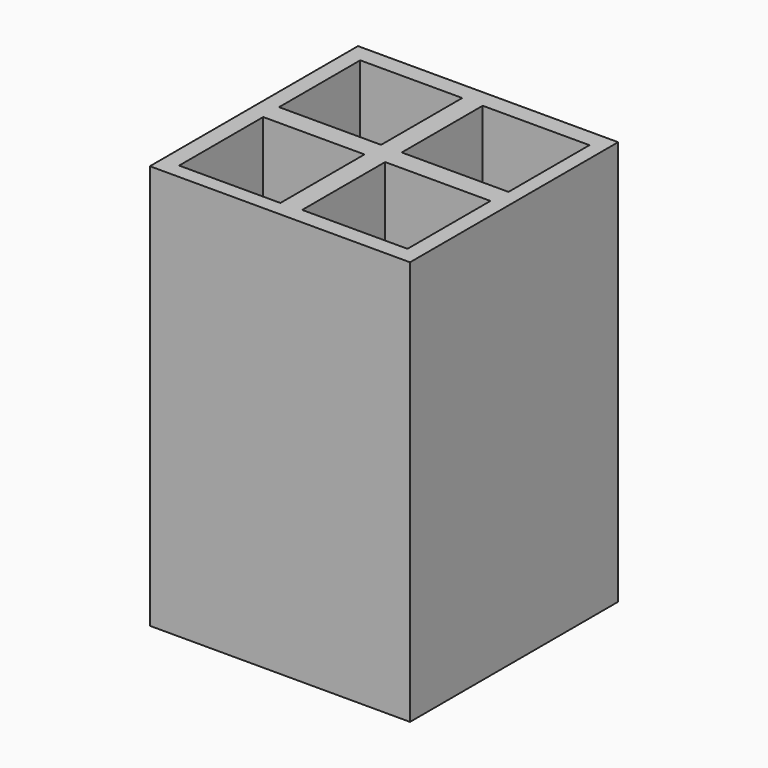
from build123d import *

# Parameters (mm, degrees)
F0_W     = 57.15
F0_H     = 57.15
F1_DEPTH = 88.9
F3_W     = 22.417528
F3_H     = 22.28817
F3_W_2   = 23.450016
F3_H_2   = 22.233822
F3_W_3   = 22.246276
F3_H_3   = 23.097542
F3_W_4   = 23.135233
F3_H_4   = 22.775532
F4_DEPTH = 79.375


with BuildPart() as f1:
    # F0 (on Top) → F1 (new body)
    with BuildSketch(Plane.XY):
        Rectangle(F0_W, F0_H)
    extrude(amount=F1_DEPTH)

    # F3 (on face) → F4 (cut)
    with BuildSketch(Plane.XY.offset(88.9)):
        with Locations((-13.767475, 13.544269)):
            Rectangle(F3_W, F3_H)
        with Locations((13.703142, 13.517095)):
            Rectangle(F3_W_2, F3_H_2)
        with Locations((-13.681849, -13.709291)):
            Rectangle(F3_W_3, F3_H_3)
        with Locations((13.545751, -13.548286)):
            Rectangle(F3_W_4, F3_H_4)
    extrude(amount=-F4_DEPTH, mode=Mode.SUBTRACT)


solid = f1.part
